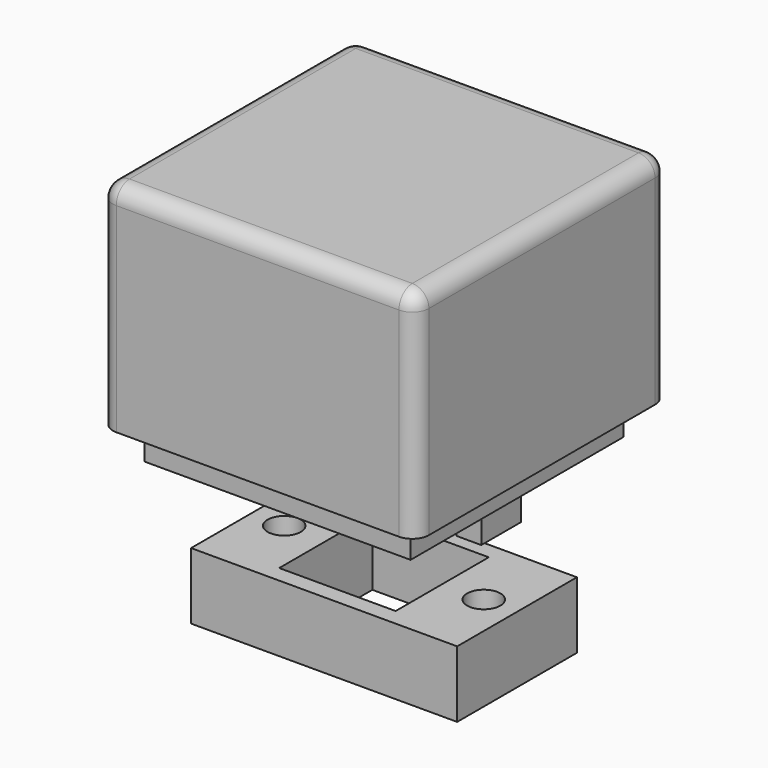
from build123d import *

# Parameters (mm, degrees)
F0_W      = 16
F0_H      = 9
F0_R      = 1
F0_W_2    = 7
F0_H_2    = 7
F1_DEPTH  = 4
F3_W      = 4
F3_H      = 4
F4_DEPTH  = 3
F5_W      = 16
F5_H      = 16
F5_R      = 1.1
F5_W_2    = 3
F5_H_2    = 3
F6_DEPTH  = 3
F8_W      = 19
F8_H      = 19
F9_DEPTH  = 13
F10_W     = 17
F10_H     = 17
F11_DEPTH = 8
F12_R     = 0.6
F13_DEPTH = 4
F14_R     = 1
F15_W     = 1.5
F15_H     = 3
F15_H_2   = 2.5
F16_DEPTH = 2


with BuildPart() as f1:
    # F0 (on Top) → F1 (new body)
    with BuildSketch(Plane.XY):
        Rectangle(F0_W, F0_H)
        with Locations((-6, 0)):
            Circle(F0_R, mode=Mode.SUBTRACT)
        Rectangle(F0_W_2, F0_H_2, mode=Mode.SUBTRACT)
        with Locations((6, 0)):
            Circle(F0_R, mode=Mode.SUBTRACT)
    extrude(amount=F1_DEPTH)


with BuildPart() as f4:
    # F3 (on offset) → F4 (new body)
    with BuildSketch(Plane.XY.offset(10)):
        Rectangle(F3_W, F3_H)
    extrude(amount=-F4_DEPTH)


with BuildPart() as f6:
    # F5 (on offset) → F6 (new body)
    with BuildSketch(Plane.XY.offset(10)):
        Rectangle(F5_W, F5_H)
        with Locations((0, -6)):
            Circle(F5_R, mode=Mode.SUBTRACT)
        Rectangle(F5_W_2, F5_H_2, mode=Mode.SUBTRACT)
        with Locations((0, 6)):
            Circle(F5_R, mode=Mode.SUBTRACT)
    extrude(amount=F6_DEPTH)

    # F15 (on face) → F16 (join)
    with BuildSketch(Plane(origin=(0, 0, 10), x_dir=(1, 0, 0), z_dir=(0, 0, -1))):
        with Locations((6.5, 0.25)):
            Rectangle(F15_W, F15_H)
        with Locations((-6.5, 0)):
            Rectangle(F15_W, F15_H_2)
    extrude(amount=F16_DEPTH)


with BuildPart() as f9:
    # F8 (on offset) → F9 (new body)
    with BuildSketch(Plane.XY.offset(12)):
        Rectangle(F8_W, F8_H)
    extrude(amount=F9_DEPTH)

    # F10 (on face) → F11 (cut)
    with BuildSketch(Plane(origin=(0, 0, 12), x_dir=(1, 0, 0), z_dir=(0, 0, -1))):
        Rectangle(F10_W, F10_H)
    extrude(amount=-F11_DEPTH, mode=Mode.SUBTRACT)

    # F12 (on face) → F13 (cut)
    with BuildSketch(Plane(origin=(0, 0, 20), x_dir=(1, 0, 0), z_dir=(0, 0, -1))):
        with Locations((0, 6)):
            Circle(F12_R)
        with Locations((0, -6)):
            Circle(F12_R)
    extrude(amount=-F13_DEPTH, mode=Mode.SUBTRACT)

    # F14
    f14_edges = [f9.edges().sort_by_distance(p)[0] for p in [
        (-9.5, -9.5, 18.5),
        (9.5, -9.5, 18.5),
        (-9.5, 9.5, 18.5),
        (9.5, 9.5, 18.5),
        (0, -9.5, 25),
        (9.5, 0, 25),
        (0, 9.5, 25),
        (-9.5, 0, 25),
    ]]
    fillet(f14_edges, radius=F14_R)


solid = Compound([f1.part, f4.part, f6.part, f9.part])
